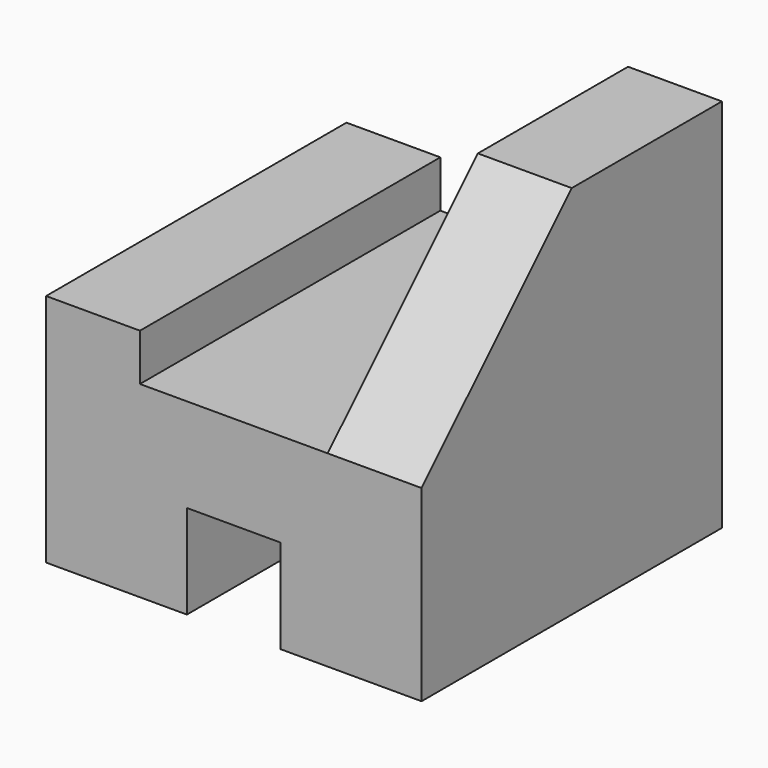
from build123d import *

# Parameters (mm, degrees)
F0_W     = 101.6
F0_H     = 101.6
F1_DEPTH = 101.6
F3_DEPTH = 101.6
F4_W     = 25.4
F4_H     = 25.4
F5_DEPTH = 101.6
F7_DEPTH = 25.4


with BuildPart() as f1:
    # F0 (on Front) → F1 (new body)
    with BuildSketch(Plane.XZ):
        with Locations((10.979355, -9.29968)):
            Rectangle(F0_W, F0_H)
    extrude(amount=F1_DEPTH)

    # F2 (on face) → F3 (cut)
    with BuildSketch(Plane.XZ.offset(101.6)):
        Polygon((-39.820645, 41.50032), (-39.820645, 3.40032), (-14.420645, 3.40032), (-14.420645, -9.29968), (36.379355, -9.29968), (36.379355, 41.50032), align=None)
    extrude(amount=-F3_DEPTH, mode=Mode.SUBTRACT)

    # F4 (on face) → F5 (cut)
    with BuildSketch(Plane.XZ.offset(101.6)):
        with Locations((10.979355, -47.39968)):
            Rectangle(F4_W, F4_H)
    extrude(amount=-F5_DEPTH, mode=Mode.SUBTRACT)

    # F6 (on face) → F7 (cut)
    with BuildSketch(Plane.YZ.offset(61.779355)):
        Polygon((-101.6, -9.29968), (-50.8, 41.50032), (-101.6, 41.50032), align=None)
    extrude(amount=-F7_DEPTH, mode=Mode.SUBTRACT)


solid = f1.part
